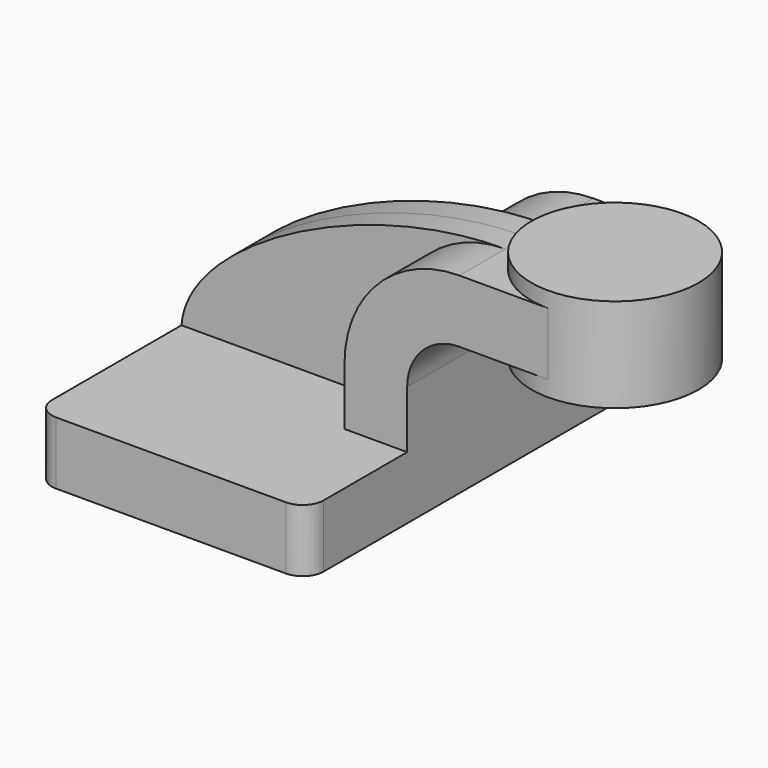
from build123d import *

# Parameters (mm, degrees)
F1_DEPTH = 63.5
F0_W     = 25.4
F0_H     = 19.05
F2_DEPTH = 25.4
F3_DEPTH = 7.9375
F5_R     = 6.35


with BuildPart() as f1:
    # F0 (on Front) → F1 (new body, symmetric)
    with BuildSketch(Plane.XZ):
        Polygon((-41.275, -9.525), (41.275, -9.525), (41.275, 9.525), (22.225, 9.525), (-41.275, 9.525), align=None)
    extrude(amount=F1_DEPTH, both=True)

    # F0 (on Front) → F2 (join, symmetric)
    with BuildSketch(Plane.XZ):
        with BuildLine():
            Line((22.225, 9.525), (41.275, 9.525))
            Line((41.275, 9.525), (41.275, 27.0002))
            ThreePointArc((41.275, 27.0002), (45.9246798487, 38.2255201513), (57.15, 42.8752))
            Line((57.15, 42.8752), (58.7173181552, 42.8752))
            Line((58.7173181552, 42.8752), (58.7173181552, 61.9252))
            Line((58.7173181552, 61.9252), (57.15, 61.9252))
            ThreePointArc((57.15, 61.9252), (32.4542956671, 51.6959043329), (22.225, 27.0002))
            Line((22.225, 27.0002), (22.225, 9.525))
        make_face()
        with Locations((71.4173181552, 52.4002)):
            Rectangle(F0_W, F0_H)
        with Locations((71.4173181552, 52.4002)):
            Rectangle(F0_W, F0_H)
    extrude(amount=F2_DEPTH, both=True)

    # F0 (on Front) → F3 (join, symmetric)
    with BuildSketch(Plane.XZ):
        with BuildLine():
            add(Edge.make_bspline(
                [(-41.275, 9.525), (-39.4876301289, 34.0806692839), (13.6961471289, 62.1632300317), (57.15, 61.9252)],
                knots=[0, 0, 0, 0, 111.5045361635, 111.5045361635, 111.5045361635, 111.5045361635], degree=3))
            Line((-41.275, 9.525), (22.225, 9.525))
            Line((22.225, 9.525), (22.225, 27.0002))
            ThreePointArc((22.225, 27.0002), (32.4542956671, 51.6959043329), (57.15, 61.9252))
        make_face()
    extrude(amount=F3_DEPTH, both=True)

    # F0 (on Front) → F4 (revolve)
    with BuildSketch(Plane.XZ):
        Polygon((84.1173181552, 66.675), (84.1173181552, 61.9252), (84.1173181552, 42.8752), (84.1173181552, 38.1), (109.5173181552, 38.1), (109.5173181552, 66.675), align=None)
    revolve(axis=Axis((84.1173181552, 0, 52.3875), (0, 0, 1)))

    # F5
    f5_edges = [f1.edges().sort_by_distance(p)[0] for p in [
        (41.275, -63.5, 0),
        (-41.275, -63.5, 0),
        (41.275, 63.5, 0),
        (-41.275, 63.5, 0),
    ]]
    fillet(f5_edges, radius=F5_R)


solid = f1.part
